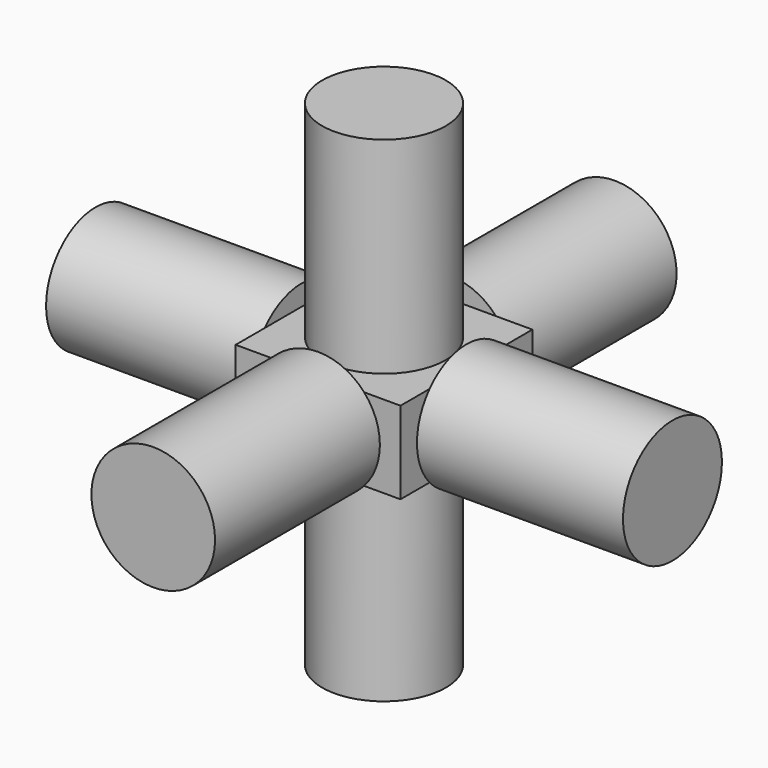
from build123d import *

# Parameters (mm, degrees)
F0_W      = 20
F0_H      = 20
F1_DEPTH  = 10
F2_R      = 7.5
F8_DEPTH  = 25
F3_R      = 7.5
F9_DEPTH  = 25
F4_R      = 7.5
F10_DEPTH = 25
F5_R      = 7.5
F11_DEPTH = 25
F6_R      = 7.5
F12_DEPTH = 25
F7_R      = 7.5
F13_DEPTH = 25


with BuildPart() as f1:
    # F0 (on Top) → F1 (new body)
    with BuildSketch(Plane.XY):
        Rectangle(F0_W, F0_H)
    extrude(amount=F1_DEPTH)

    # F2 (on face) → F8 (join)
    with BuildSketch(Plane.XY.offset(10)):
        Circle(F2_R)
    extrude(amount=F8_DEPTH)

    # F3 (on face) → F9 (join)
    with BuildSketch(Plane(origin=(0, 10, 0), x_dir=(-1, 0, 0), z_dir=(0, 1, 0))):
        with Locations((0, 5)):
            Circle(F3_R)
    extrude(amount=F9_DEPTH)

    # F4 (on face) → F10 (join)
    with BuildSketch(Plane.XZ.offset(10)):
        with Locations((0, 5)):
            Circle(F4_R)
    extrude(amount=F10_DEPTH)

    # F5 (on face) → F11 (join)
    with BuildSketch(Plane(origin=(-10, 0, 0), x_dir=(0, -1, 0), z_dir=(-1, 0, 0))):
        with Locations((0, 5)):
            Circle(F5_R)
    extrude(amount=F11_DEPTH)

    # F6 (on face) → F12 (join)
    with BuildSketch(Plane.YZ.offset(10)):
        with Locations((0, 5)):
            Circle(F6_R)
    extrude(amount=F12_DEPTH)

    # F7 (on face) → F13 (join)
    with BuildSketch(Plane.XY):
        Circle(F7_R)
    extrude(amount=-F13_DEPTH)


solid = f1.part
